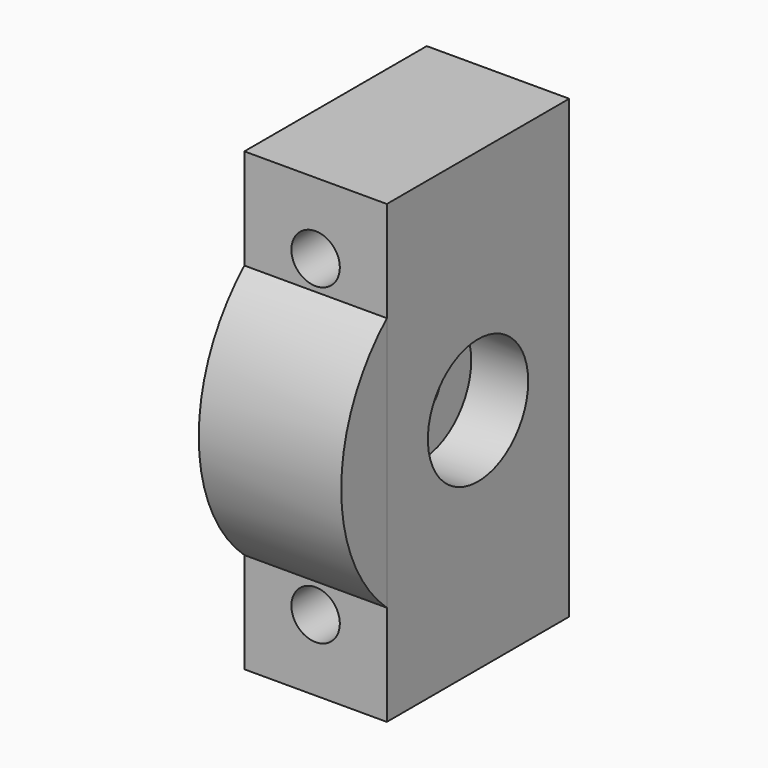
from build123d import *

# Parameters (mm, degrees)
F0_W          = 25
F0_H          = 80
F0_R          = 4.25
F1_DEPTH      = 20
F1_DEPTH_BACK = 20
F2_R          = 4.25
F3_DEPTH      = 12.5
F4_R          = 11
F5_DEPTH      = 10
F6_R          = 4.25
F7_DEPTH      = 25
F9_DEPTH      = 25


with BuildPart() as f1:
    # F0 (on Front) → F1 (new body, two sides)
    with BuildSketch(Plane.XZ) as f1_sk:
        Rectangle(F0_W, F0_H)
        with Locations((0, -27.5)):
            Circle(F0_R, mode=Mode.SUBTRACT)
        with Locations((0, 27.5)):
            Circle(F0_R, mode=Mode.SUBTRACT)
    extrude(amount=F1_DEPTH)
    extrude(f1_sk.sketch, amount=-F1_DEPTH_BACK)

    # F2 (on Right) → F3 (cut, through all)
    with BuildSketch(Plane.YZ):
        Circle(F2_R)
    extrude(amount=-F3_DEPTH, mode=Mode.SUBTRACT)

    # F4 (on face) → F5 (cut)
    with BuildSketch(Plane.YZ.offset(12.5)):
        Circle(F4_R)
    extrude(amount=-F5_DEPTH, mode=Mode.SUBTRACT)

    # F6 (on face) → F7 (cut)
    with BuildSketch(Plane.YZ.offset(12.5)):
        Circle(F6_R)
    extrude(amount=-F7_DEPTH, mode=Mode.SUBTRACT)


with BuildPart() as f9:
    # F8 (on face) → F9 (new body)
    with BuildSketch(Plane(origin=(-12.5, 0, 0), x_dir=(0, -1, 0), z_dir=(-1, 0, 0))):
        with BuildLine():
            Line((20, 22.3606797751), (20, -22.3606797749))
            ThreePointArc((20, -22.3606797749), (30, 1e-10), (20, 22.3606797751))
        make_face()
    extrude(amount=-F9_DEPTH)


solid = Compound([f1.part, f9.part])
